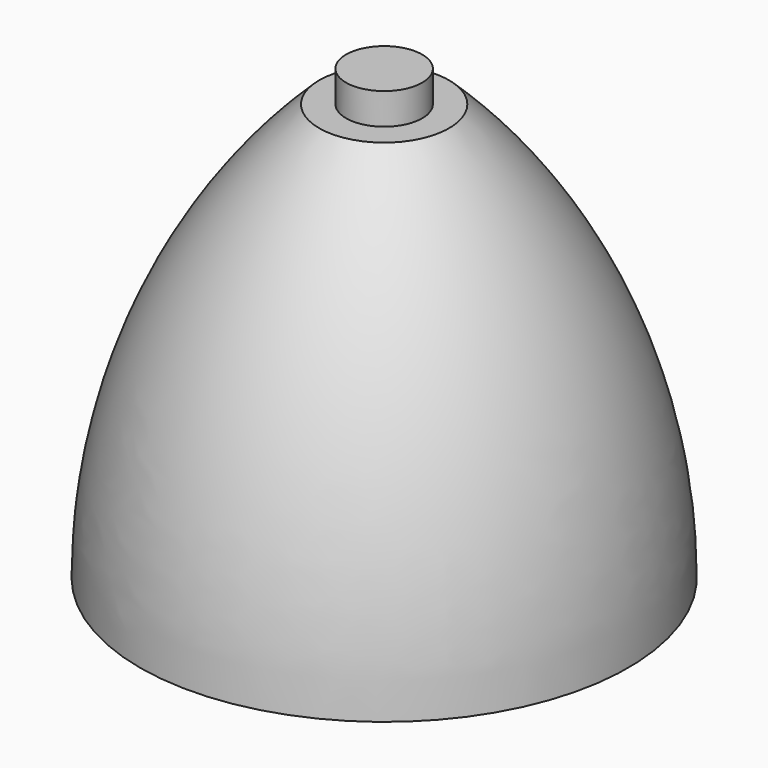
from build123d import *


with BuildPart() as f1:
    # F0 (on Front) → F1 (revolve)
    with BuildSketch(Plane.XZ):
        with BuildLine():
            Line((0, 68.662509), (-3.787459, 68.662509))
            ThreePointArc((-3.787459, 68.662509), (-22.413851, 41.888364), (-29.037161, 9.952035))
            Line((-29.037161, 9.952035), (5.365563, 9.952035))
            Line((5.365563, 9.952035), (5.365563, 73.081575))
            Line((5.365563, 73.081575), (0, 73.081575))
            Line((0, 73.081575), (0, 68.662509))
        make_face()
    revolve(axis=Axis((5.365563, 0, 41.516805), (0, 0, 1)))


solid = f1.part
